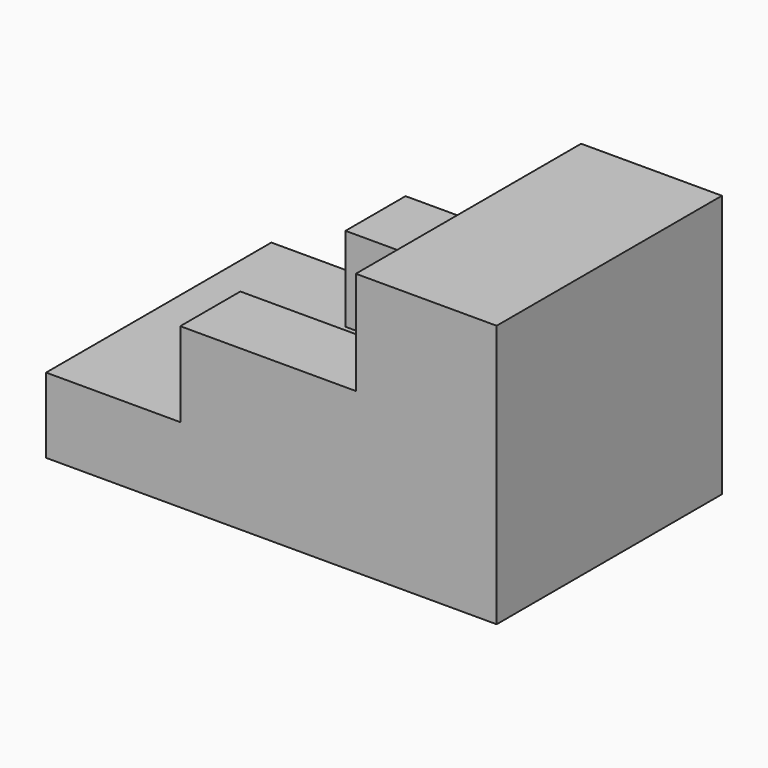
from build123d import *

# Parameters (mm, degrees)
F0_W     = 60.96
F0_H     = 38.1
F1_DEPTH = 10.16
F2_W     = 19.05
F2_H     = 38.1
F3_DEPTH = 25.4
F4_W     = 23.755038
F4_H     = 38.1
F5_DEPTH = 11.43
F6_W     = 23.755038
F6_H     = 17.78
F7_DEPTH = 11.43


with BuildPart() as f1:
    # F0 (on Top) → F1 (new body)
    with BuildSketch(Plane.XY):
        Rectangle(F0_W, F0_H)
    extrude(amount=F1_DEPTH)

    # F2 (on face) → F3 (join)
    with BuildSketch(Plane.XY.offset(10.16)):
        with Locations((20.955, 0)):
            Rectangle(F2_W, F2_H)
    extrude(amount=F3_DEPTH)

    # F4 (on face) → F5 (join)
    with BuildSketch(Plane.XY.offset(10.16)):
        with Locations((-0.447519, 0)):
            Rectangle(F4_W, F4_H)
    extrude(amount=F5_DEPTH)

    # F6 (on face) → F7 (cut, through all)
    with BuildSketch(Plane.XY.offset(21.59)):
        with Locations((-0.447519, 0)):
            Rectangle(F6_W, F6_H)
    extrude(amount=-F7_DEPTH, mode=Mode.SUBTRACT)


solid = f1.part
